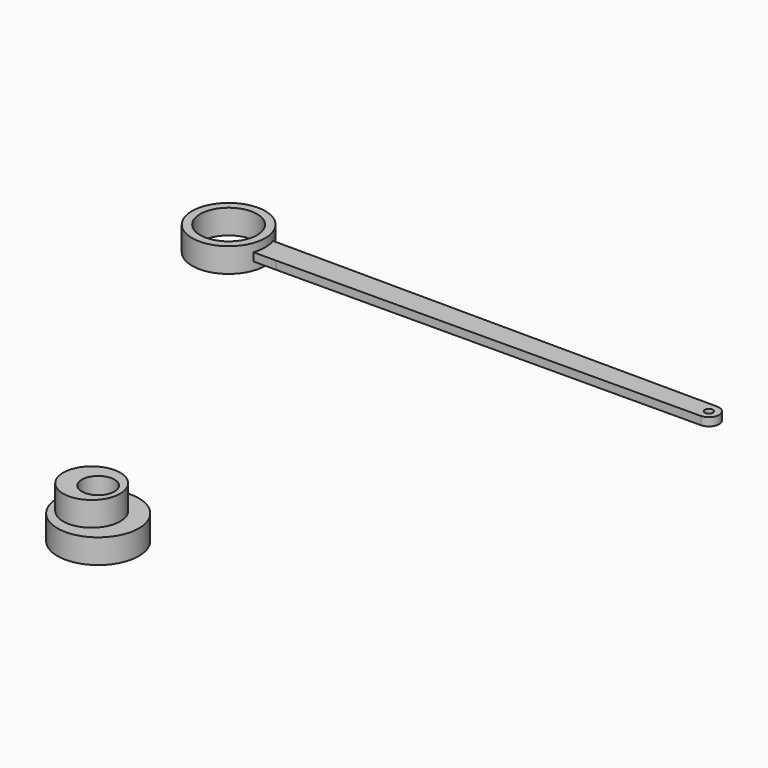
from build123d import *

# Parameters (mm, degrees)
F0_R     = 7.14375
F0_R_2   = 5.55625
F1_DEPTH = 2.38125
F2_R     = 0.79375
F3_DEPTH = 0.79375
F5_R     = 7.9375
F6_DEPTH = 4.7625
F7_R     = 5.55625
F8_DEPTH = 4.7625
F9_D     = 6.35


with BuildPart() as f1:
    # F0 (on Top) → F1 (new body, symmetric)
    with BuildSketch(Plane.XY):
        with Locations((-46.83125, 0)):
            Circle(F0_R)
        with Locations((-46.83125, 0)):
            Circle(F0_R_2, mode=Mode.SUBTRACT)
    extrude(amount=F1_DEPTH, both=True)

    # F2 (on Top) → F3 (join, symmetric)
    with BuildSketch(Plane.XY):
        with BuildLine():
            Line((46.83125, 1.984375), (-35.71875, 2.38125))
            Line((-35.71875, 2.38125), (-39.6875, 2.38125))
            Line((-39.6875, 2.38125), (-41.0550454259, 2.38125))
            Line((-41.0550454259, 2.38125), (-41.0550454259, -2.38125))
            Line((-41.0550454259, -2.38125), (-39.6875, -2.38125))
            Line((-39.6875, -2.38125), (-35.71875, -2.38125))
            Line((-35.71875, -2.38125), (46.83125, -1.984375))
            ThreePointArc((46.83125, -1.984375), (48.8061076688, 0), (46.83125, 1.984375))
        make_face()
        with Locations((46.83125, 0)):
            Circle(F2_R, mode=Mode.SUBTRACT)
    extrude(amount=F3_DEPTH, both=True)


with BuildPart() as f1_1:
    # F4: moved
    add(f1.part.moved(Location((0, 90.33738, 0))))


with BuildPart() as f6:
    # F5 (on Top) → F6 (new body)
    with BuildSketch(Plane.XY):
        Circle(F5_R)
    extrude(amount=F6_DEPTH)

    # F7 (on face) → F8 (join)
    with BuildSketch(Plane.XY.offset(4.7625)):
        with Locations((-1.27, 0)):
            Circle(F7_R)
    extrude(amount=F8_DEPTH)

    # F9 (through all)
    with Locations(Plane(origin=(0, 0, 0), x_dir=(1, 0, 0), z_dir=(0, 0, -1))):
        with Locations((0, 0)):
            Hole(F9_D / 2)


solid = Compound([f1_1.part, f6.part])
